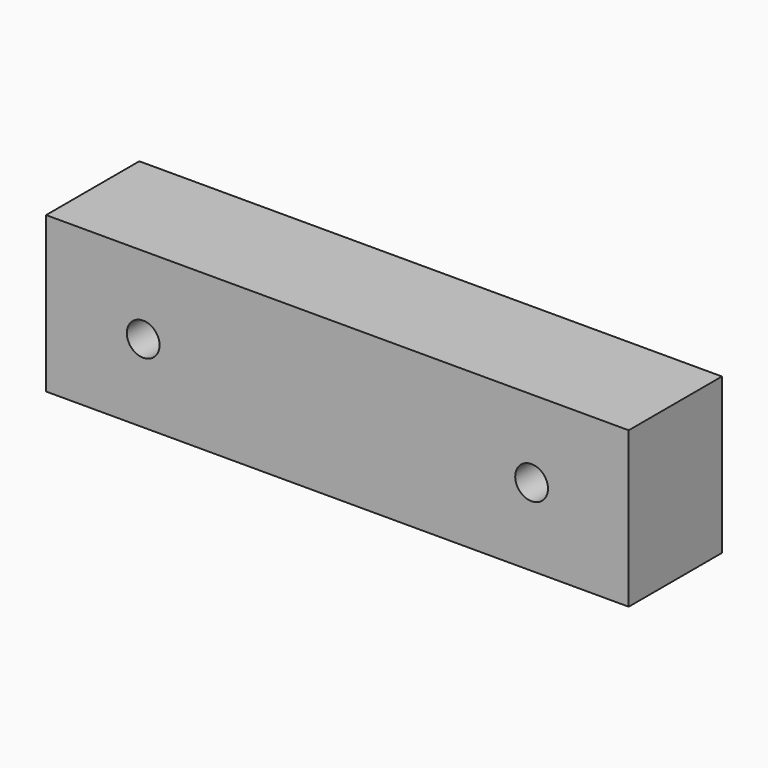
from build123d import *

# Parameters (mm, degrees)
F0_W     = 190.5
F0_H     = 50.8
F1_DEPTH = 38.1
F3_D     = 10.71626
F3_DEPTH = 18.5615384615
F3_TIP   = 3.2194893086


with BuildPart() as f1:
    # F0 (on Front) → F1 (new body)
    with BuildSketch(Plane.XZ):
        Rectangle(F0_W, F0_H)
    extrude(amount=F1_DEPTH)

    # F3
    with Locations(Plane.XZ.offset(38.1)):
        with Locations((-63.5, 0), (63.5, 0)):
            Hole(F3_D / 2, depth=F3_DEPTH)
            with Locations((0, 0, -(F3_DEPTH + F3_TIP / 2))):  # 118° drill point
                Cone(0, F3_D / 2, F3_TIP, mode=Mode.SUBTRACT)


solid = f1.part
